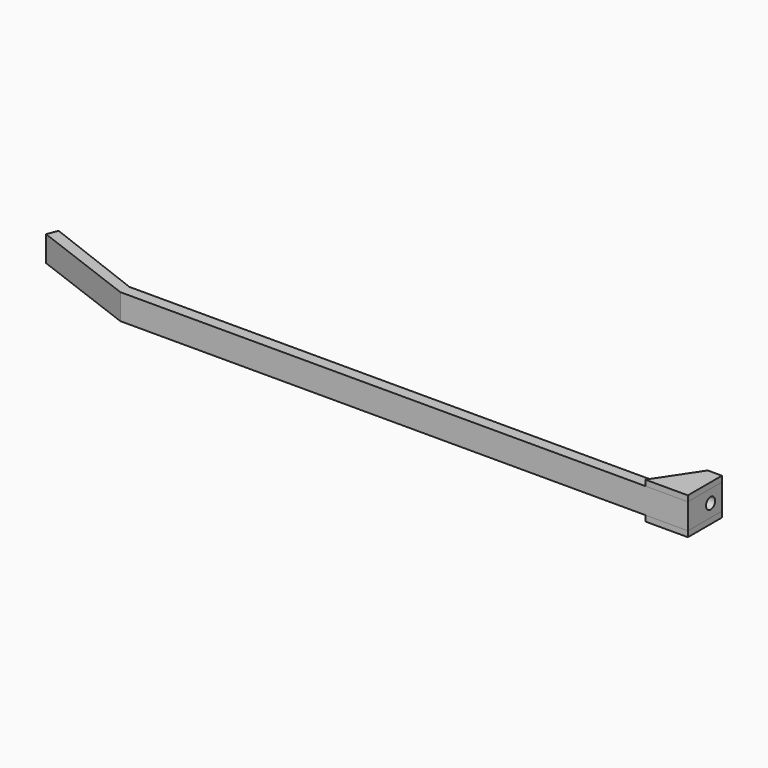
from build123d import *

# Parameters (mm, degrees)
CYLINDER_R       = 2
CYLINDER_DEPTH   = 10
EXTRUDE_DEPTH    = 9
EXTRUDE001_DEPTH = 2
EXTRUDE002_DEPTH = 2


with BuildPart() as cylinder:
    # Cylinder → Cylinder (new body)
    with BuildSketch(Plane(origin=(-6, 10, 4.5), x_dir=(0, 0, -1), z_dir=(1, 0, 0))):
        Circle(CYLINDER_R)
    extrude(amount=CYLINDER_DEPTH)


with BuildPart() as cut:
    # Sketch → Extrude (new body)
    with BuildSketch(Plane.XY):
        Polygon((0, 15), (0, 0), (-200, 0), (-237.523249, 14.211394), (-236.106512, 17.952096), (-200, 4), (-5, 4), (-5, 15), align=None)
    extrude(amount=EXTRUDE_DEPTH)

    # Cut: cut Cylinder
    add(cylinder.part, mode=Mode.SUBTRACT)


with BuildPart() as extrude001:
    # Sketch001 → Extrude001 (new body)
    with BuildSketch(Plane.XY):
        Polygon((0, 0), (0, 15), (-5, 15), (-15, 0), align=None)
    extrude(amount=EXTRUDE001_DEPTH)


with BuildPart() as extrude001_1:
    # Extrude001 placement: moved
    add(extrude001.part.moved(Location((0, 0, -2))))


with BuildPart() as extrude002:
    # Sketch002 → Extrude002 (new body)
    with BuildSketch(Plane.XY):
        Polygon((0, 0), (0, 15), (-5, 15), (-15, 0), align=None)
    extrude(amount=EXTRUDE002_DEPTH)


with BuildPart() as extrude002_1:
    # Extrude002 placement: moved
    add(extrude002.part.moved(Location((0, 0, 9))))


solid = Compound([cut.part, extrude001_1.part, extrude002_1.part])
